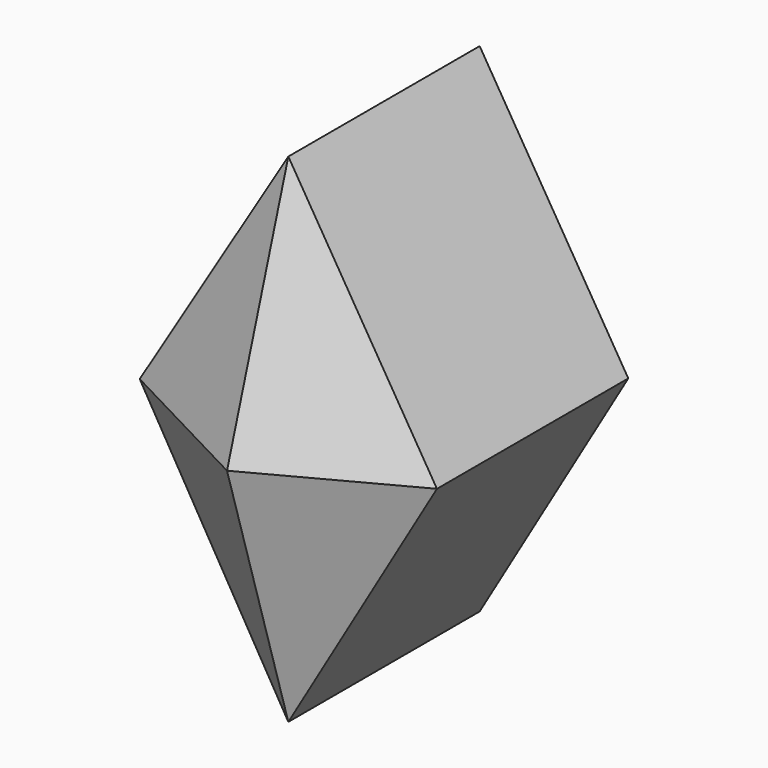
from build123d import *

# Parameters (mm, degrees)
F1_DEPTH  = 5.08
F2_DEPTH  = 5.08
F3_W      = 124.8834840953
F3_H      = 134.0803280473
F4_DEPTH  = 25.4
F5_DEPTH  = 1.27
F6_DEPTH  = 1.27
F8_DEPTH  = 25.4
F9_DEPTH  = 2.54
F10_DEPTH = 2.54
F11_SIZE2 = 3.418656578
F11_SIZE  = 5.6896
F12_SIZE2 = 3.6576
F12_SIZE  = 5.6322100916


with BuildPart() as f1:
    # F0 (on Front) → F1 (new body)
    with BuildSketch(Plane.XZ):
        with BuildLine():
            add(Edge.make_bspline(
                [(11.6870266183, 8.3659507286), (11.9476031572, 8.1243832132), (12.5616108346, 7.4348870399), (13.3502602627, 5.9055860485), (12.8304196463, 2.6136928469), (12.1032885822, -3.9726756525), (11.7671016032, -8.6546761386), (11.3077259518, -11.7183290107), (11.0820746049, -13.2232354954)],
                knots=[0.7644347581, 0.7644347581, 0.7644347581, 0.7644347581, 0.7813803339, 0.8102561854, 0.8494051355, 0.9057589485, 0.9537075591, 1, 1, 1, 1], degree=3))
            Line((11.6870266183, 8.3659507286), (10.7098612934, -7.1798651479))
            Line((10.7098612934, -7.1798651479), (-10.6029463932, 18.994666636))
            Line((-10.6029463932, 18.994666636), (-7.8187826003, 81.9431145827))
            add(Edge.make_bspline(
                [(-10.6029463932, 84.9773436785), (-9.8645957866, 84.411917966), (-8.8470388386, 83.6326772405), (-8.0272766718, 82.3316307612), (-7.8187826003, 81.9431145827)],
                knots=[0, 0, 0, 0, 0.0369842854, 0.0509698458, 0.0509698458, 0.0509698458, 0.0509698458], degree=3))
            add(Edge.make_bspline(
                [(-11.1952358857, -13.2855195552), (-11.1963398761, -12.8902117283), (-11.1997561984, -11.6669231231), (-11.1512885463, -5.3731858959), (-11.3422819981, 1.4393792063), (-12.1461643066, 4.6189611976), (-13.2850553088, 9.1238655935), (-15.2318124981, 13.6348809881), (-16.5294824008, 17.2010053959), (-19.3261405399, 23.6368379744), (-19.7379489625, 26.452730971), (-18.8574929103, 31.5305578619), (-16.6797816611, 35.2468825016), (-14.5909185063, 40.6408371255), (-13.4119591393, 46.1621954132), (-12.5394588361, 53.3896491248), (-12.0546254183, 59.9791874234), (-12.4642284532, 65.9827168693), (-12.3457592591, 73.9226808987), (-11.3164428193, 80.5227149139), (-11.5649092387, 84.7450814286), (-10.8268692537, 84.9232783602), (-10.6029463932, 84.9773436785)],
                knots=[0, 0, 0, 0, 0.0273896804, 0.0847579572, 0.1451631407, 0.1862204743, 0.2349457062, 0.2850522094, 0.3309978555, 0.390291, 0.4296935499, 0.4796750401, 0.527816225, 0.5818528524, 0.6365092781, 0.6980539867, 0.7565756752, 0.8124783975, 0.8767822708, 0.9378286387, 0.9811370802, 1, 1, 1, 1], degree=3))
            Line((-11.1952358857, -13.2855195552), (10.8409429303, -13.2855195552))
            add(Edge.make_bspline(
                [(10.8409429303, -13.2855195552), (10.9216527758, -13.2575733481), (11.0020770139, -13.2366740148), (11.0820746049, -13.2232354954)],
                knots=[0.9988692567, 0.9988692567, 0.9988692567, 0.9988692567, 1, 1, 1, 1], degree=3))
        make_face()
        with BuildLine():
            Line((10.7098612934, -7.1798651479), (11.6870266183, 8.3659507286))
            add(Edge.make_bspline(
                [(-7.8187826003, 81.9431145827), (-7.3326835412, 81.037298185), (-6.246332701, 78.0877738667), (-5.7619281696, 71.7972152113), (-5.7903461619, 61.0472196354), (-5.6098025476, 47.5528084715), (-5.6232359348, 35.7951775922), (-6.6035814728, 31.5572406566), (-6.642373723, 26.8588973108), (-4.7217209893, 21.7576733197), (-2.3324429206, 17.8568763905), (-0.0644904347, 14.9988475653), (2.1698029367, 12.9502128359), (5.7523840475, 11.2499433455), (8.6363164493, 10.2542124123), (10.6765655712, 9.2073747067), (11.4911211984, 8.5475648745), (11.6870266183, 8.3659507286)],
                knots=[0.0509698458, 0.0509698458, 0.0509698458, 0.0509698458, 0.0835768534, 0.1402547932, 0.2115954168, 0.293701069, 0.3674969806, 0.4121442254, 0.4580916534, 0.50894046, 0.5557476766, 0.5967458601, 0.6345135251, 0.6775157549, 0.7161326985, 0.7516948155, 0.7644347581, 0.7644347581, 0.7644347581, 0.7644347581], degree=3))
            Line((-7.8187826003, 81.9431145827), (-10.6029463932, 18.994666636))
            Line((-10.6029463932, 18.994666636), (10.7098612934, -7.1798651479))
        make_face()
        with BuildLine():
            Line((11.0820746049, -15.9663576633), (11.0820746049, -13.2855195552))
            Line((11.0820746049, -13.2855195552), (10.8409429303, -13.2855195552))
            add(Edge.make_bspline(
                [(8.3953980002, -15.9663576633), (9.1364610409, -14.6227373643), (10.004055933, -13.5752960653), (10.8409429303, -13.2855195552)],
                knots=[0.9871444865, 0.9871444865, 0.9871444865, 0.9871444865, 0.9988692567, 0.9988692567, 0.9988692567, 0.9988692567], degree=3))
            Line((8.3953980003, -15.9663576633), (11.0820746049, -15.9663576633))
        make_face()
        with BuildLine():
            add(Edge.make_bspline(
                [(8.3953980002, -15.9663576633), (9.1364610409, -14.6227373643), (10.004055933, -13.5752960653), (10.8409429303, -13.2855195552)],
                knots=[0.9871444865, 0.9871444865, 0.9871444865, 0.9871444865, 0.9988692567, 0.9988692567, 0.9988692567, 0.9988692567], degree=3))
            Line((10.8409429303, -13.2855195552), (-11.1952358857, -13.2855195552))
            Line((-11.1952358857, -13.2855195552), (-11.0308257863, -15.9663576633))
            Line((-11.0308257863, -15.9663576633), (8.3953980003, -15.9663576633))
        make_face()
        with BuildLine():
            Line((11.0820746049, -13.2855195552), (11.0820746049, -13.2232354954))
            add(Edge.make_bspline(
                [(10.8409429303, -13.2855195552), (10.9216527758, -13.2575733481), (11.0020770139, -13.2366740148), (11.0820746049, -13.2232354954)],
                knots=[0.9988692567, 0.9988692567, 0.9988692567, 0.9988692567, 1, 1, 1, 1], degree=3))
            Line((10.8409429303, -13.2855195552), (11.0820746049, -13.2855195552))
        make_face()
    extrude(amount=F1_DEPTH)

    # F2 (add): a face of the model
    f2_faces = [f1.faces().sort_by_distance(p)[0] for p in [
        (-5.0809274024, 0, 19.1888153538),
    ]]
    extrude(f2_faces, amount=F2_DEPTH)

    # F3 (on face) → F4 (cut)
    with BuildSketch(Plane.XZ.offset(5.08)):
        with Locations((7.2313416749, 30.1963053644)):
            Rectangle(F3_W, F3_H)
        with BuildLine():
            Line((-11.0308257863, -15.9663576633), (-11.1952358857, -13.2855195552))
            add(Edge.make_bspline(
                [(-11.1952358857, -13.2855195552), (-11.1963398761, -12.8902117283), (-11.1997561984, -11.6669231231), (-11.1512885463, -5.3731858959), (-11.3422819981, 1.4393792063), (-12.1461643066, 4.6189611976), (-13.2850553088, 9.1238655935), (-15.2318124981, 13.6348809881), (-16.5294824008, 17.2010053959), (-19.3261405399, 23.6368379744), (-19.7379489625, 26.452730971), (-18.8574929103, 31.5305578619), (-16.6797816611, 35.2468825016), (-14.5909185063, 40.6408371255), (-13.4119591393, 46.1621954132), (-12.5394588361, 53.3896491248), (-12.0546254183, 59.9791874234), (-12.4642284532, 65.9827168693), (-12.3457592591, 73.9226808987), (-11.3164428193, 80.5227149139), (-11.5649092387, 84.7450814286), (-10.8268692537, 84.9232783602), (-10.6029463932, 84.9773436785)],
                knots=[0, 0, 0, 0, 0.0273896804, 0.0847579572, 0.1451631407, 0.1862204743, 0.2349457062, 0.2850522094, 0.3309978555, 0.390291, 0.4296935499, 0.4796750401, 0.527816225, 0.5818528524, 0.6365092781, 0.6980539867, 0.7565756752, 0.8124783975, 0.8767822708, 0.9378286387, 0.9811370802, 1, 1, 1, 1], degree=3))
            add(Edge.make_bspline(
                [(11.0820746049, -13.2232354954), (11.3077259518, -11.7183290107), (11.7671016032, -8.6546761386), (12.1032885822, -3.9726756525), (12.8304196463, 2.6136928469), (13.3502602627, 5.9055860485), (12.443365527, 7.6641811468), (11.0743289472, 9.0032850711), (8.6363164493, 10.2542124123), (5.7523840475, 11.2499433455), (2.1698029367, 12.9502128359), (-0.0644904347, 14.9988475653), (-2.3324429206, 17.8568763905), (-4.7217209893, 21.7576733197), (-6.642373723, 26.8588973108), (-6.6035814728, 31.5572406566), (-5.6232359348, 35.7951775922), (-5.6098025476, 47.5528084715), (-5.7903461619, 61.0472196354), (-5.7619281696, 71.7972152113), (-6.2885094778, 78.6354885776), (-8.1960757736, 83.1341725308), (-9.8645957866, 84.411917966), (-10.6029463932, 84.9773436785)],
                knots=[0.7644347581, 0.7644347581, 0.7644347581, 0.7644347581, 0.810727199, 0.8586758096, 0.9150296226, 0.9541785727, 0.9830544242, 1.0127399426, 1.0483020596, 1.0869190032, 1.1299212329, 1.167688898, 1.2086870814, 1.2554942981, 1.3063431047, 1.3522905327, 1.3969377775, 1.470733689, 1.5528393413, 1.6241799649, 1.6808579047, 1.7274504726, 1.7644347581, 1.7644347581, 1.7644347581, 1.7644347581], degree=3))
            Line((11.0820746049, -13.2232354954), (11.0820746049, -15.9663576633))
            Line((11.0820746049, -15.9663576633), (-11.0308257863, -15.9663576633))
        make_face(mode=Mode.SUBTRACT)
        with BuildLine():
            add(Edge.make_bspline(
                [(-11.1952358857, -13.2855195552), (-11.1963398761, -12.8902117283), (-11.1997561984, -11.6669231231), (-11.1512885463, -5.3731858959), (-11.3422819981, 1.4393792063), (-12.1461643066, 4.6189611976), (-13.2850553088, 9.1238655935), (-15.2318124981, 13.6348809881), (-16.5294824008, 17.2010053959), (-19.3261405399, 23.6368379744), (-19.7379489625, 26.452730971), (-18.8574929103, 31.5305578619), (-16.6797816611, 35.2468825016), (-14.5909185063, 40.6408371255), (-13.4119591393, 46.1621954132), (-12.5394588361, 53.3896491248), (-12.0546254183, 59.9791874234), (-12.4642284532, 65.9827168693), (-12.3457592591, 73.9226808987), (-11.3164428193, 80.5227149139), (-11.5649092387, 84.7450814286), (-10.8268692537, 84.9232783602), (-10.6029463932, 84.9773436785)],
                knots=[0, 0, 0, 0, 0.0273896804, 0.0847579572, 0.1451631407, 0.1862204743, 0.2349457062, 0.2850522094, 0.3309978555, 0.390291, 0.4296935499, 0.4796750401, 0.527816225, 0.5818528524, 0.6365092781, 0.6980539867, 0.7565756752, 0.8124783975, 0.8767822708, 0.9378286387, 0.9811370802, 1, 1, 1, 1], degree=3))
            Line((-11.1952358857, -13.2855195552), (-11.0308257863, -15.9663576633))
            Line((-11.0308257863, -15.9663576633), (11.0820746049, -15.9663576633))
            Line((11.0820746049, -15.9663576633), (11.0820746049, -13.2232354954))
            add(Edge.make_bspline(
                [(11.0820746049, -13.2232354954), (11.3077259518, -11.7183290107), (11.7671016032, -8.6546761386), (12.1032885822, -3.9726756525), (12.8304196463, 2.6136928469), (13.3502602627, 5.9055860485), (12.443365527, 7.6641811468), (11.0743289472, 9.0032850711), (8.6363164493, 10.2542124123), (5.7523840475, 11.2499433455), (2.1698029367, 12.9502128359), (-0.0644904347, 14.9988475653), (-2.3324429206, 17.8568763905), (-4.7217209893, 21.7576733197), (-6.642373723, 26.8588973108), (-6.6035814728, 31.5572406566), (-5.6232359348, 35.7951775922), (-5.6098025476, 47.5528084715), (-5.7903461619, 61.0472196354), (-5.7619281696, 71.7972152113), (-6.2885094778, 78.6354885776), (-8.1960757736, 83.1341725308), (-9.8645957866, 84.411917966), (-10.6029463932, 84.9773436785)],
                knots=[0.7644347581, 0.7644347581, 0.7644347581, 0.7644347581, 0.810727199, 0.8586758096, 0.9150296226, 0.9541785727, 0.9830544242, 1.0127399426, 1.0483020596, 1.0869190032, 1.1299212329, 1.167688898, 1.2086870814, 1.2554942981, 1.3063431047, 1.3522905327, 1.3969377775, 1.470733689, 1.5528393413, 1.6241799649, 1.6808579047, 1.7274504726, 1.7644347581, 1.7644347581, 1.7644347581, 1.7644347581], degree=3))
        make_face()
        Polygon((-7.6687936671, 0), (0, 12.9914516583), (7.6687936671, 0), (0, -13.0022913218), align=None, mode=Mode.SUBTRACT)
    extrude(amount=-F4_DEPTH, mode=Mode.SUBTRACT)

    # F5 (add): a face of the model
    f5_faces = [f1.faces().sort_by_distance(p)[0] for p in [
        (0, -5.08, -0.0036132211),
    ]]
    extrude(f5_faces, amount=F5_DEPTH)

    # F6 (add): a face of the model
    f6_faces = [f1.faces().sort_by_distance(p)[0] for p in [
        (0, 5.08, -0.0036132211),
    ]]
    extrude(f6_faces, amount=F6_DEPTH)

    # F7 (on face) → F8 (cut)
    with BuildSketch(Plane.XZ.offset(6.35)):
        Polygon((0, -13.0022913218), (7.6687936671, 0), (0, 12.9914516583), (-7.6687936671, 0), align=None)
        Polygon((-6.6512613557, 0), (0, 10.9297530726), (6.6512613557, 0), (0, -11.3473664969), align=None, mode=Mode.SUBTRACT)
    extrude(amount=-F8_DEPTH, mode=Mode.SUBTRACT)

    # F9 (add): a face of the model
    f9_faces = [f1.faces().sort_by_distance(p)[0] for p in [
        (0, -6.35, -0.1392044748),
    ]]
    extrude(f9_faces, amount=F9_DEPTH)

    # F10 (add): a face of the model
    f10_faces = [f1.faces().sort_by_distance(p)[0] for p in [
        (0, 6.35, -0.1392044748),
    ]]
    extrude(f10_faces, amount=F10_DEPTH)

    # F11
    f11_edges = [f1.edges().sort_by_distance(p)[0] for p in [
        (3.325631, -8.89, 5.464877),
        (-3.325631, -8.89, 5.464877),
        (-3.325631, -8.89, -5.673683),
        (3.325631, -8.89, -5.673683),
    ]]
    f11_side = f1.faces().sort_by_distance((0, -8.89, -0.139204))[0]
    chamfer(f11_edges, length=F11_SIZE, length2=F11_SIZE2, reference=f11_side)

    # F12
    f12_edges = [f1.edges().sort_by_distance(p)[0] for p in [
        (3.325631, 8.89, -5.673683),
        (3.325631, 8.89, 5.464877),
        (-3.325631, 8.89, 5.464877),
        (-3.325631, 8.89, -5.673683),
    ]]
    f12_side = f1.faces().sort_by_distance((0, 8.89, -0.139204))[0]
    chamfer(f12_edges, length=F12_SIZE, length2=F12_SIZE2, reference=f12_side)


solid = f1.part
